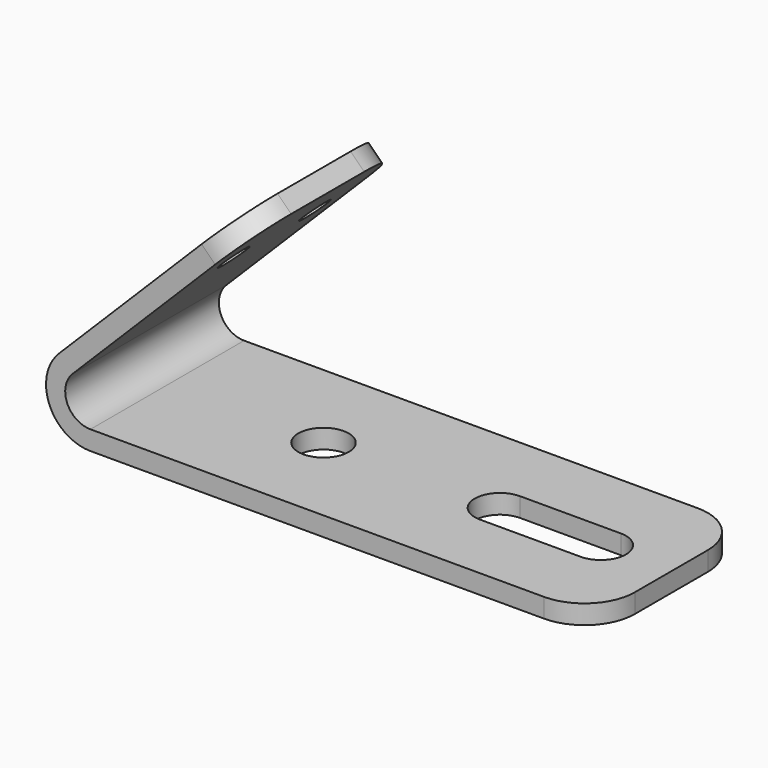
from build123d import *

# Parameters (mm, degrees)
F1_DEPTH = 19.05
F2_R     = 2.5
F3_DEPTH = 25
F4_R     = 1.5
F5_DEPTH = 7.9
F6_R     = 5
F7_R     = 5


with BuildPart() as f1:
    # F0 (on Front) → F1 (new body)
    with BuildSketch(Plane.XZ):
        with BuildLine():
            Line((-50, 0), (0, 0))
            Line((0, 0), (0, 1.9))
            Line((0, 1.9), (-50, 1.9))
            ThreePointArc((-50, 1.9), (-52.309699, 3.443291), (-51.767767, 6.167767))
            Line((-51.767767, 6.167767), (-34.090097, 23.845436))
            Line((-34.090097, 23.845436), (-35.4336, 25.188939))
            Line((-35.4336, 25.188939), (-53.11127, 7.51127))
            ThreePointArc((-53.11127, 7.51127), (-54.06507, 2.716193), (-50, 0))
        make_face()
    extrude(amount=-F1_DEPTH)

    # F2 (on face) → F3 (cut)
    with BuildSketch(Plane.XY.offset(1.9)):
        with BuildLine():
            Line((-17, 7.025), (-7, 7.025))
            ThreePointArc((-7, 7.025), (-4.5, 9.525), (-7, 12.025))
            Line((-7, 12.025), (-17, 12.025))
            ThreePointArc((-17, 12.025), (-19.5, 9.525), (-17, 7.025))
        make_face()
        with Locations((-34.5, 9.525)):
            Circle(F2_R)
    extrude(amount=-F3_DEPTH, mode=Mode.SUBTRACT)

    # F4 (on face) → F5 (cut)
    with BuildSketch(Plane(origin=(-30.31127, 0, 30.31127), x_dir=(0, -1, 0), z_dir=(-0.707107, 0, 0.707107))):
        with Locations((-4.5, -14.744069)):
            Circle(F4_R)
        with Locations((-14.55, -14.744069)):
            Circle(F4_R)
    extrude(amount=-F5_DEPTH, mode=Mode.SUBTRACT)

    # F6
    f6_edges = [f1.edges().sort_by_distance(p)[0] for p in [
        (0, 19.05, 0.95),
    ]]
    fillet(f6_edges, radius=F6_R)

    # F7
    f7_edges = [f1.edges().sort_by_distance(p)[0] for p in [
        (0, 0, 0.95),
        (-34.761849, 0, 24.517188),
        (-34.761849, 19.05, 24.517188),
    ]]
    fillet(f7_edges, radius=F7_R)


solid = f1.part
